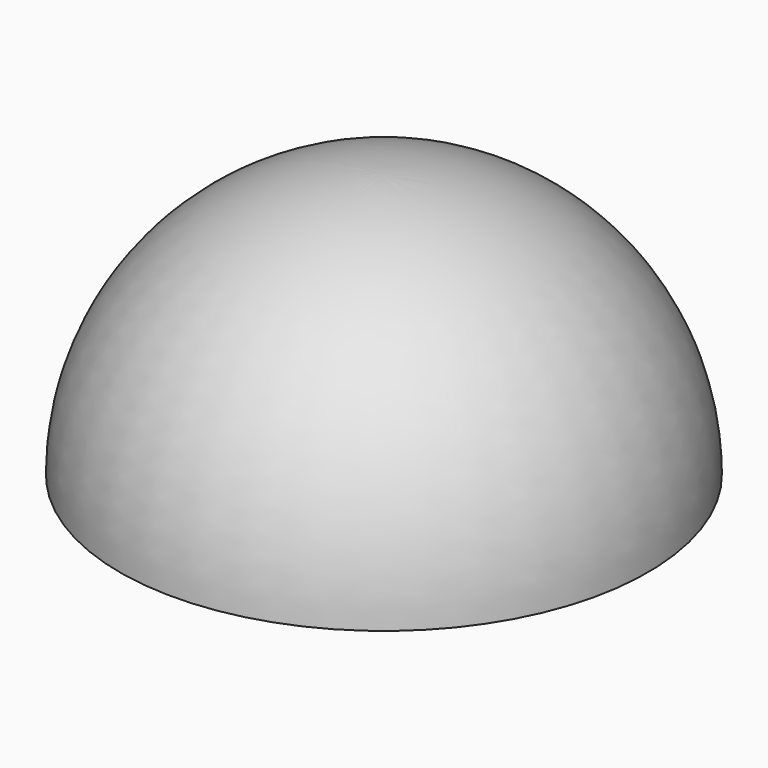
from build123d import *

# Parameters (mm, degrees)
F2_T = -1.27


with BuildPart() as f1:
    # F0 (on Front) → F1 (revolve)
    with BuildSketch(Plane.XZ):
        with BuildLine():
            ThreePointArc((0, 44.809915), (-31.685395, 31.685395), (-44.809915, 0))
            Line((-44.809915, 0), (0, 0))
            Line((0, 0), (0, 44.809915))
        make_face()
    revolve(axis=Axis((0, 0, 1.422541), (0, 0, -1)))

    # F2
    f2_openings = [f1.faces().sort_by_distance(p)[0] for p in [
        (0, 0, 0),
    ]]
    offset(amount=F2_T, openings=f2_openings)


solid = f1.part
